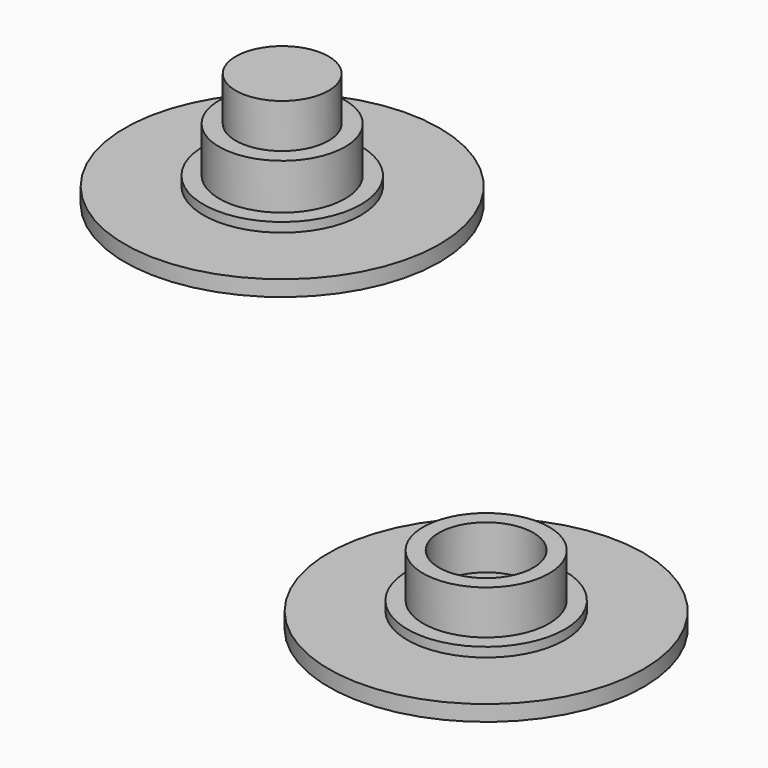
from build123d import *

# Parameters (mm, degrees)
F0_R      = 10
F1_DEPTH  = 1
F2_R      = 4
F3_DEPTH  = 3.4
F4_T      = -1
F5_R      = 5
F6_DEPTH  = 0.6
F7_R      = 10
F8_DEPTH  = 1
F9_R      = 4
F10_DEPTH = 3.5
F11_R     = 2.95
F12_DEPTH = 2.8
F13_R     = 5
F13_R_2   = 4
F14_DEPTH = 0.6


with BuildPart() as f1:
    # F0 (on Top) → F1 (new body)
    with BuildSketch(Plane.XY):
        Circle(F0_R)
    extrude(amount=F1_DEPTH)

    # F2 (on face) → F3 (join)
    with BuildSketch(Plane.XY.offset(1)):
        Circle(F2_R)
    extrude(amount=F3_DEPTH)

    # F4
    f4_openings = [f1.faces().sort_by_distance(p)[0] for p in [
        (0, 0, 4.4),
    ]]
    offset(amount=F4_T, openings=f4_openings, kind=Kind.INTERSECTION)

    # F5 (on face) → F6 (join)
    with BuildSketch(Plane.XY.offset(1)):
        Circle(F5_R)
    extrude(amount=F6_DEPTH)


with BuildPart() as f8:
    # F7 (on Top) → F8 (new body)
    with BuildSketch(Plane.XY):
        with Locations((-36.4144779742, 29.3206144124)):
            Circle(F7_R)
    extrude(amount=F8_DEPTH)

    # F9 (on face) → F10 (join)
    with BuildSketch(Plane.XY.offset(1)):
        with Locations((-36.4144779742, 29.3206144124)):
            Circle(F9_R)
    extrude(amount=F10_DEPTH)

    # F11 (on face) → F12 (join)
    with BuildSketch(Plane.XY.offset(4.5)):
        with Locations((-36.4144779742, 29.3206144124)):
            Circle(F11_R)
    extrude(amount=F12_DEPTH)

    # F13 (on face) → F14 (join)
    with BuildSketch(Plane.XY.offset(1)):
        with Locations((-36.4144779742, 29.3206144124)):
            Circle(F13_R)
        with Locations((-36.4144779742, 29.3206144124)):
            Circle(F13_R_2, mode=Mode.SUBTRACT)
    extrude(amount=F14_DEPTH)


solid = Compound([f1.part, f8.part])
